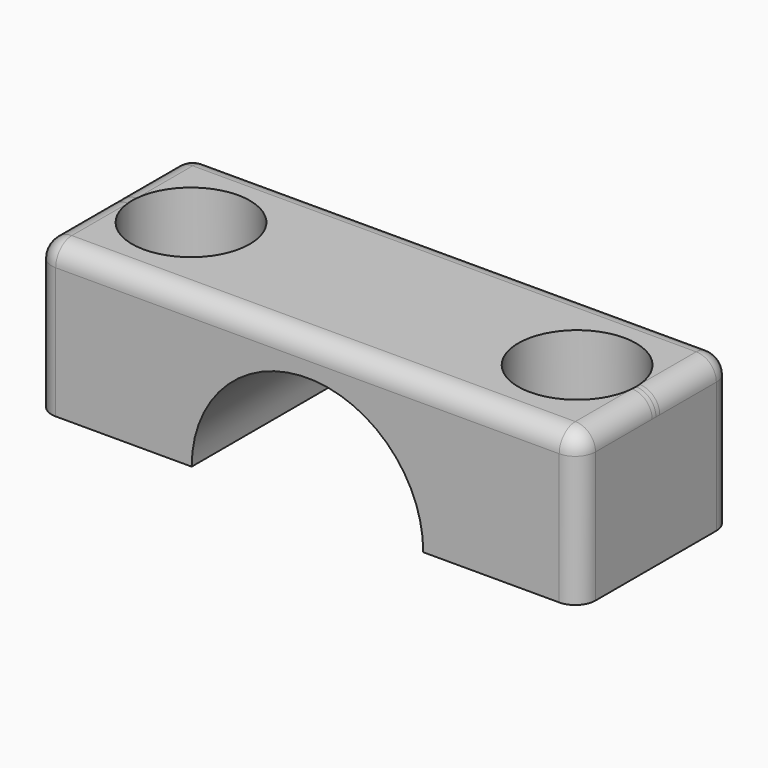
from build123d import *

# Parameters (mm, degrees)
F1_DEPTH = 24.13
F2_R     = 7.4295
F3_DEPTH = 54.61
F4_R     = 2.54


with BuildPart() as f1:
    # F0 (on Front) → F1 (new body)
    with BuildSketch(Plane.XZ):
        with BuildLine():
            Line((-7.143751, 47.944095), (-7.143751, 32.704095))
            Line((-7.143751, 32.704095), (12.541249, 32.704095))
            ThreePointArc((12.541249, 32.704095), (27.146249, 47.309095), (41.751249, 32.704095))
            Line((41.751249, 32.704095), (61.436249, 32.704095))
            Line((61.436249, 32.704095), (61.436249, 51.754095))
            Line((61.436249, 51.754095), (-3.333751, 51.754095))
            Line((-3.333751, 51.754095), (-7.143751, 51.754095))
            Line((-7.143751, 51.754095), (-7.143751, 47.944095))
        make_face()
    extrude(amount=F1_DEPTH)

    # F2 (on Top) → F3 (cut)
    with BuildSketch(Plane.XY):
        with Locations((51.49099, -12.054064)):
            Circle(F2_R)
        with Locations((2.793759, -12.054064)):
            Circle(F2_R)
    extrude(amount=F3_DEPTH, mode=Mode.SUBTRACT)

    # F4
    f4_edges = [f1.edges().sort_by_distance(p)[0] for p in [
        (61.436249, 0, 42.229095),
        (-7.143751, 0, 42.229095),
        (-7.143751, -24.13, 42.229095),
        (27.146249, -24.13, 51.754095),
        (27.146249, 0, 51.754095),
        (61.436249, -24.13, 42.229095),
        (-7.143751, -12.065, 51.754095),
        (61.436249, -12.065, 51.754095),
    ]]
    fillet(f4_edges, radius=F4_R)


solid = f1.part
